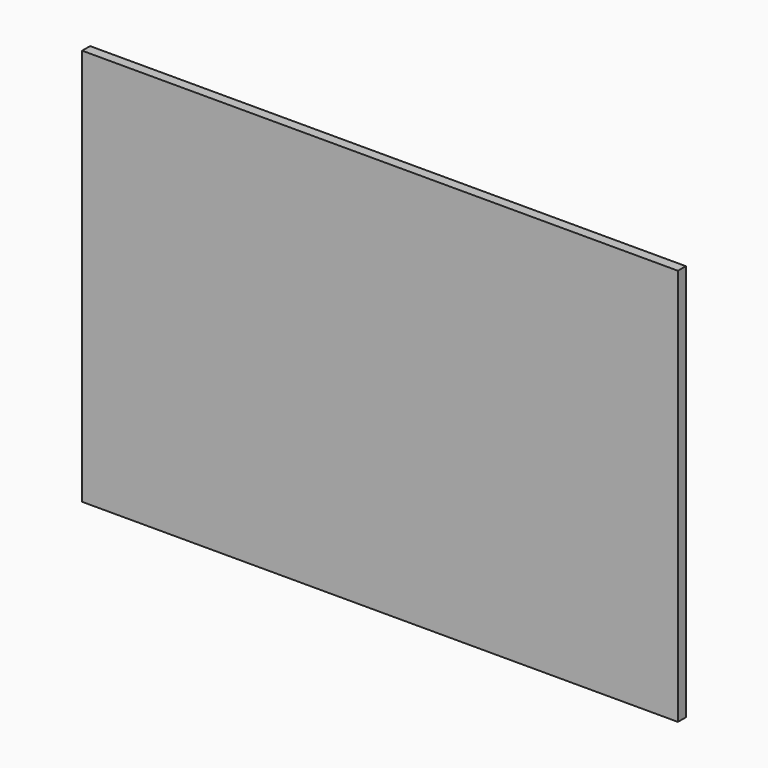
from build123d import *

# Parameters (mm, degrees)
F0_W     = 1500
F0_H     = 1000
F1_DEPTH = 25
F2_R     = 200
F3_DEPTH = 50


with BuildPart() as f1:
    # F0 (on Front) → F1 (new body)
    with BuildSketch(Plane.XZ):
        with Locations((750, 500)):
            Rectangle(F0_W, F0_H)
    extrude(amount=F1_DEPTH)

    # F2 (on face) → F3 (join)
    with BuildSketch(Plane(origin=(0, 0, 0), x_dir=(-1, 0, 0), z_dir=(0, 1, 0))):
        with Locations((-750, 500)):
            Circle(F2_R)
    extrude(amount=F3_DEPTH)


solid = f1.part
